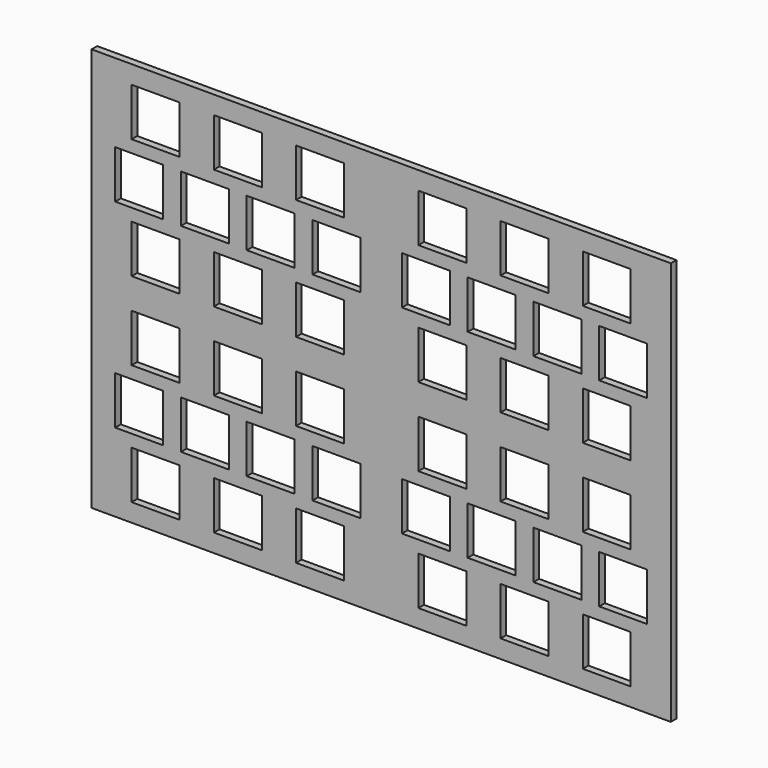
from build123d import *

# Parameters (mm, degrees)
F0_W     = 41
F0_H     = 41
F1_DEPTH = 6


with BuildPart() as f1:
    # F0 (on Front) → F1 (new body)
    with BuildSketch(Plane.XZ):
        Polygon((-226.75, -174.116667), (228.25, -174.116667), (248.25, -174.116667), (248.25, -154.116667), (248.25, 150.883333), (248.25, 170.883333), (227.5, 170.883333), (-227.5, 170.883333), (-246.75, 170.883333), (-246.75, 152.5), (-246.75, -152.5), (-246.75, -174.116667), align=None)
        with Locations((-192, -138.116667)):
            Rectangle(F0_W, F0_H, mode=Mode.SUBTRACT)
        with Locations((-121.75, -138.116667)):
            Rectangle(F0_W, F0_H, mode=Mode.SUBTRACT)
        with Locations((-51.5, -138.116667)):
            Rectangle(F0_W, F0_H, mode=Mode.SUBTRACT)
        with Locations((-206.05, -86.616667)):
            Rectangle(F0_W, F0_H, mode=Mode.SUBTRACT)
        with Locations((-149.85, -86.616667)):
            Rectangle(F0_W, F0_H, mode=Mode.SUBTRACT)
        with Locations((-192, -35.116667)):
            Rectangle(F0_W, F0_H, mode=Mode.SUBTRACT)
        with Locations((-93.65, -86.616667)):
            Rectangle(F0_W, F0_H, mode=Mode.SUBTRACT)
        with Locations((-37.45, -86.616667)):
            Rectangle(F0_W, F0_H, mode=Mode.SUBTRACT)
        with Locations((-121.75, -35.116667)):
            Rectangle(F0_W, F0_H, mode=Mode.SUBTRACT)
        with Locations((-51.5, -35.116667)):
            Rectangle(F0_W, F0_H, mode=Mode.SUBTRACT)
        with Locations((53, -138.116667)):
            Rectangle(F0_W, F0_H, mode=Mode.SUBTRACT)
        with Locations((123.25, -138.116667)):
            Rectangle(F0_W, F0_H, mode=Mode.SUBTRACT)
        with Locations((193.5, -138.116667)):
            Rectangle(F0_W, F0_H, mode=Mode.SUBTRACT)
        with Locations((38.95, -86.616667)):
            Rectangle(F0_W, F0_H, mode=Mode.SUBTRACT)
        with Locations((95.15, -86.616667)):
            Rectangle(F0_W, F0_H, mode=Mode.SUBTRACT)
        with Locations((53, -35.116667)):
            Rectangle(F0_W, F0_H, mode=Mode.SUBTRACT)
        with Locations((123.25, -35.116667)):
            Rectangle(F0_W, F0_H, mode=Mode.SUBTRACT)
        with Locations((151.35, -86.616667)):
            Rectangle(F0_W, F0_H, mode=Mode.SUBTRACT)
        with Locations((207.55, -86.616667)):
            Rectangle(F0_W, F0_H, mode=Mode.SUBTRACT)
        with Locations((193.5, -35.116667)):
            Rectangle(F0_W, F0_H, mode=Mode.SUBTRACT)
        with Locations((-192, 31.883333)):
            Rectangle(F0_W, F0_H, mode=Mode.SUBTRACT)
        with Locations((-206.05, 83.383333)):
            Rectangle(F0_W, F0_H, mode=Mode.SUBTRACT)
        with Locations((-149.85, 83.383333)):
            Rectangle(F0_W, F0_H, mode=Mode.SUBTRACT)
        with Locations((-121.75, 31.883333)):
            Rectangle(F0_W, F0_H, mode=Mode.SUBTRACT)
        with Locations((-51.5, 31.883333)):
            Rectangle(F0_W, F0_H, mode=Mode.SUBTRACT)
        with Locations((-93.65, 83.383333)):
            Rectangle(F0_W, F0_H, mode=Mode.SUBTRACT)
        with Locations((-37.45, 83.383333)):
            Rectangle(F0_W, F0_H, mode=Mode.SUBTRACT)
        with Locations((-192, 134.883333)):
            Rectangle(F0_W, F0_H, mode=Mode.SUBTRACT)
        with Locations((-121.75, 134.883333)):
            Rectangle(F0_W, F0_H, mode=Mode.SUBTRACT)
        with Locations((-51.5, 134.883333)):
            Rectangle(F0_W, F0_H, mode=Mode.SUBTRACT)
        with Locations((53, 31.883333)):
            Rectangle(F0_W, F0_H, mode=Mode.SUBTRACT)
        with Locations((123.25, 31.883333)):
            Rectangle(F0_W, F0_H, mode=Mode.SUBTRACT)
        with Locations((38.95, 83.383333)):
            Rectangle(F0_W, F0_H, mode=Mode.SUBTRACT)
        with Locations((95.15, 83.383333)):
            Rectangle(F0_W, F0_H, mode=Mode.SUBTRACT)
        with Locations((193.5, 31.883333)):
            Rectangle(F0_W, F0_H, mode=Mode.SUBTRACT)
        with Locations((151.35, 83.383333)):
            Rectangle(F0_W, F0_H, mode=Mode.SUBTRACT)
        with Locations((207.55, 83.383333)):
            Rectangle(F0_W, F0_H, mode=Mode.SUBTRACT)
        with Locations((53, 134.883333)):
            Rectangle(F0_W, F0_H, mode=Mode.SUBTRACT)
        with Locations((123.25, 134.883333)):
            Rectangle(F0_W, F0_H, mode=Mode.SUBTRACT)
        with Locations((193.5, 134.883333)):
            Rectangle(F0_W, F0_H, mode=Mode.SUBTRACT)
    extrude(amount=F1_DEPTH)


solid = f1.part
